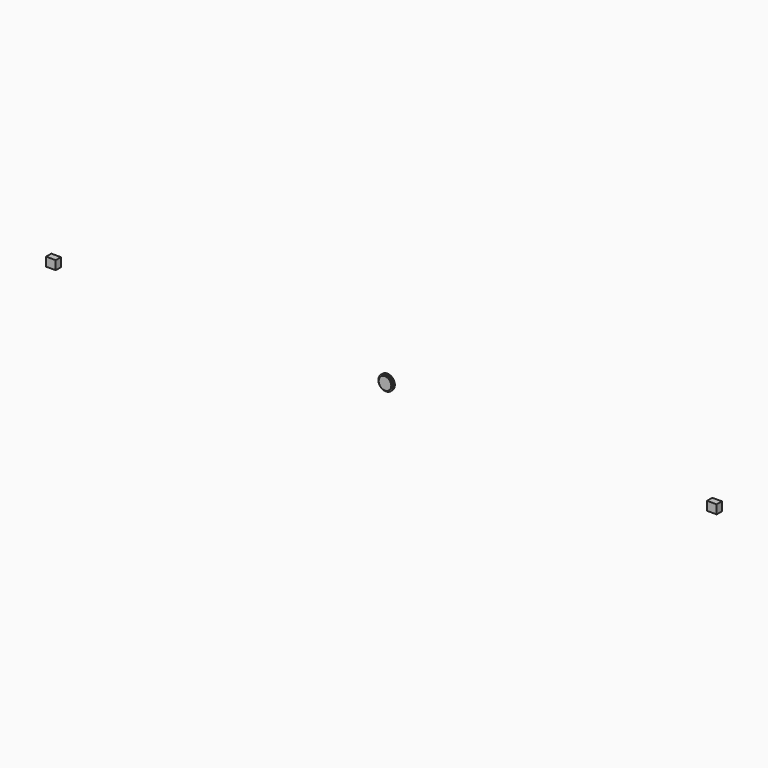
from build123d import *

# Parameters (mm, degrees)
F0_R     = 42.182367
F1_DEPTH = 4.75482
F2_R     = 35.102232
F3_DEPTH = 6.79291
F4_W     = 53.677312
F4_H     = 49.48378
F5_DEPTH = 36.7371


with BuildPart() as f1:
    # F0 (on Front) → F1 (new body, symmetric)
    with BuildSketch(Plane.XZ):
        Circle(F0_R)
    extrude(amount=F1_DEPTH, both=True)

    # F2 (on face) → F3 (join)
    with BuildSketch(Plane.XZ.offset(4.75482)):
        Circle(F2_R)
    extrude(amount=F3_DEPTH)


with BuildPart() as f5:
    # F4 (on Front) → F5 (new body)
    with BuildSketch(Plane.XZ):
        with Locations((1846.461631, 0)):
            Rectangle(F4_W, F4_H)
        with Locations((-1846.461631, 0)):
            Rectangle(F4_W, F4_H)
    extrude(amount=F5_DEPTH)


solid = Compound([f1.part, f5.part])
